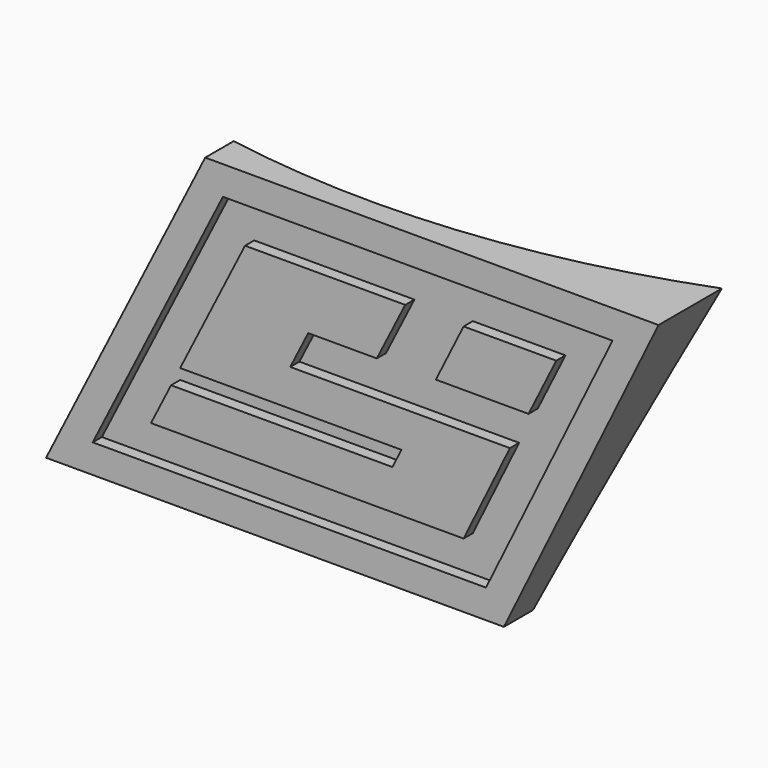
from build123d import *

# Parameters (mm, degrees)
F3_DEPTH  = 2.032
F4_DEPTH  = 1.016
F5_DEPTH  = 2.032
F6_SCALE  = 0.5
F7_DEPTH  = 12.7
F10_DEPTH = 25.4


with BuildPart() as f3:
    # F0 (on Front) → F3 (new body)
    with BuildSketch(Plane.XZ):
        Polygon((1.7399819335, 32.9988971353), (-12.4273560941, 32.9988971353), (-18.1648561832, 21.6064513681), (1.4037427613, 21.6064513681), (0.6089702947, 20.0053038526), (-18.9712312321, 20.0053038526), (-20.7453668118, 16.4825599641), (6.9015445188, 16.4825599641), (11.0007077456, 24.8590362167), (-8.4278472578, 24.8590362167), (-6.8397070281, 28.0124656121), (-0.7713007088, 28.0124656121), align=None)
    extrude(amount=F3_DEPTH)


with BuildPart() as f3b:
    # F0 (on Front) → F3, piece 2 (new body)
    with BuildSketch(Plane.XZ):
        Polygon((15.0998709723, 32.9988971353), (6.9015445188, 32.9988971353), (4.449058262, 28.0581217034), (12.6473847156, 28.0581217034), align=None)
    extrude(amount=F3_DEPTH)


with BuildPart() as f4:
    # F1 (on Front) → F4 (new body)
    with BuildSketch(Plane.XZ):
        Polygon((-14.3832698171, 36.1738971353), (-25.8992879083, 13.3075599641), (8.8825950149, 13.3075599641), (20.0726044695, 36.1738971353), align=None)
    extrude(amount=F4_DEPTH)

    # F2 (on Front) → F5 (join)
    with BuildSketch(Plane.XZ):
        Polygon((-15.9480007955, 38.7138971353), (-30.0224247855, 10.7675599641), (10.4674354118, 10.7675599641), (24.1434244793, 38.7138971353), align=None)
        Polygon((20.0726044695, 36.1738971353), (8.8825950149, 13.3075599641), (-25.8992879083, 13.3075599641), (-14.3832698171, 36.1738971353), align=None, mode=Mode.SUBTRACT)
    extrude(amount=F5_DEPTH)


with BuildPart() as f4_1:
    # F6: moved
    add(f4.part.scale(F6_SCALE).moved(Location((-3.4198535141, 0, 14.0062328061))))


with BuildPart() as f3_1:
    # F6: moved
    add(f3.part.scale(F6_SCALE).moved(Location((-3.4198535141, 0, 14.0062328061))))

    # F7 (add): a face of the model
    f7_faces = [f4_1.part.faces().sort_by_distance(p)[0] for p in [
        (-4.8455163994, 0, 26.3650820037),
    ]]


with BuildPart() as f3b_1:
    # F6: moved
    add(f3b.part.scale(F6_SCALE).moved(Location((-3.4198535141, 0, 14.0062328061))))


with BuildPart() as f3_2:
    add(f3_1.part)

    add(f3b_1.part)  # F7 merges F3b

    add(f4_1.part)  # F7 merges F4
    extrude(f7_faces, amount=F7_DEPTH)

    # F9 (on face) → F10 (cut)
    with BuildSketch(Plane.XY.offset(33.3631813737)):
        with BuildLine():
            ThreePointArc((-4.8896035063, 0), (22.0511648024, 11.1592316666), (33.2103964094, 38.1))
            ThreePointArc((33.2103964094, 38.1), (-31.8303719836, 65.0407683334), (-4.8896035063, 0))
        make_face()
    extrude(amount=-F10_DEPTH, mode=Mode.SUBTRACT)


solid = f3_2.part
